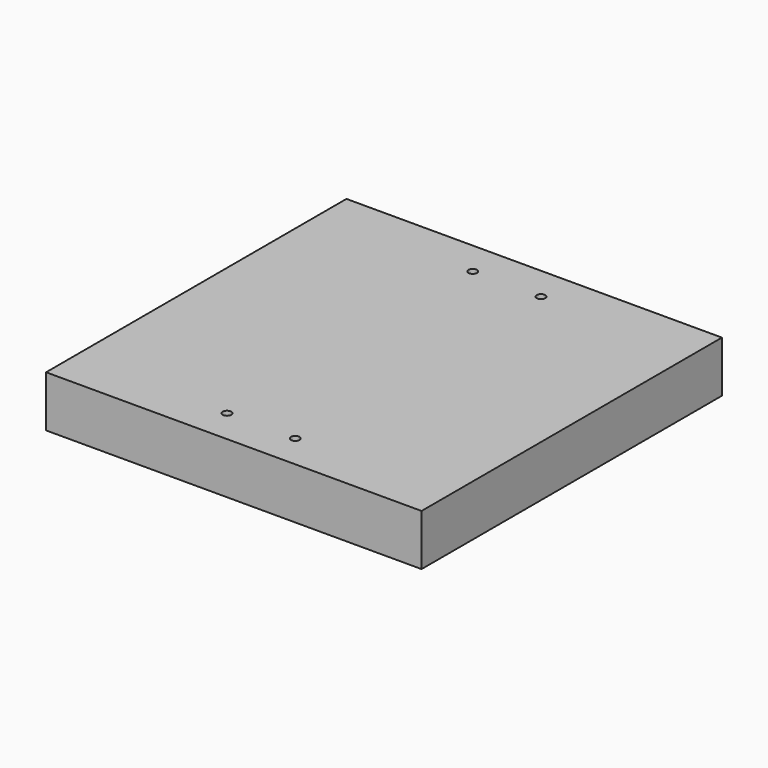
from build123d import *

# Parameters (mm, degrees)
F0_W     = 139.7
F0_H     = 139.7
F1_DEPTH = 19.05
F3_D     = 3.175
F3_DEPTH = 12.7
F3_TIP   = 0.9538662327
F5_D     = 3.175
F5_DEPTH = 12.7
F5_TIP   = 0.9538662327


with BuildPart() as f1:
    # F0 (on Top) → F1 (new body)
    with BuildSketch(Plane.XY):
        with Locations((-73.4599325806, 13.567644133)):
            Rectangle(F0_W, F0_H)
    extrude(amount=F1_DEPTH)

    # F3
    with Locations(Plane.XY.offset(19.05)):
        with Locations((-86.1599325806, 70.717644133), (-60.7599325806, 70.717644133), (-60.7599325806, -43.582355867), (-86.1599325806, -43.582355867)):
            Hole(F3_D / 2, depth=F3_DEPTH)
            with Locations((0, 0, -(F3_DEPTH + F3_TIP / 2))):  # 118° drill point
                Cone(0, F3_D / 2, F3_TIP, mode=Mode.SUBTRACT)

    # F5
    with Locations(Plane(origin=(0, 0, 0), x_dir=(1, 0, 0), z_dir=(0, 0, -1))):
        with Locations((-130.6099325806, -26.267644133), (-130.6099325806, -0.867644133), (-16.3099325806, -26.267644133), (-16.3099325806, -0.867644133)):
            Hole(F5_D / 2, depth=F5_DEPTH)
            with Locations((0, 0, -(F5_DEPTH + F5_TIP / 2))):  # 118° drill point
                Cone(0, F5_D / 2, F5_TIP, mode=Mode.SUBTRACT)


solid = f1.part
